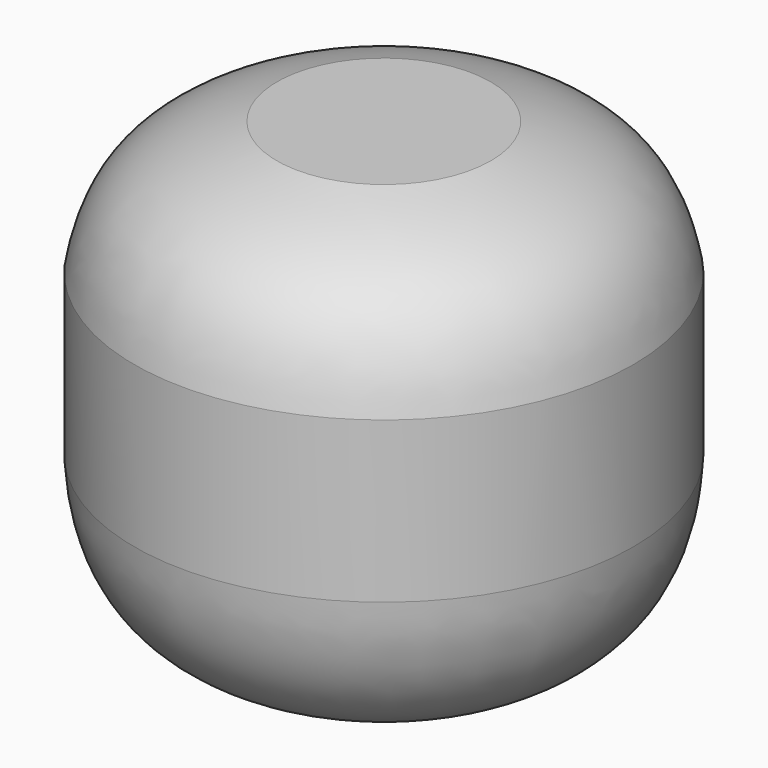
from build123d import *

# Parameters (mm, degrees)
F0_W = 44.45
F0_H = 28.575


with BuildPart() as f1:
    # F0 (on Front) → F1 (revolve)
    with BuildSketch(Plane.XZ):
        with Locations((22.225, 0.0121624306)):
            Rectangle(F0_W, F0_H)
    revolve(axis=Axis((0, 0, -3.2896416128), (0, 0, -1)))

    # F0 (on Front) → F2 (revolve)
    with BuildSketch(Plane.XZ):
        with BuildLine():
            Line((44.45, -14.2753375694), (0, -14.2753375694))
            Line((0, -14.2753375694), (0, -44.5646416128))
            Line((0, -44.5646416128), (19.05, -44.5646416128))
            add(Edge.make_bspline(
                [(19.05, -44.5646416128), (35.2008901536, -40.9282892942), (43.5626022518, -31.5213650465), (44.45, -14.2753375694)],
                knots=[0, 0, 0, 0, 39.5297601742, 39.5297601742, 39.5297601742, 39.5297601742], degree=3))
        make_face()
    revolve(axis=Axis((0, 0, -3.2896416128), (0, 0, -1)))

    # F0 (on Front) → F3 (revolve)
    with BuildSketch(Plane.XZ):
        with BuildLine():
            Line((19.05, 37.9853583872), (0, 37.9853583872))
            Line((0, 37.9853583872), (0, 14.2996624306))
            Line((0, 14.2996624306), (44.45, 14.2996624306))
            add(Edge.make_bspline(
                [(19.05, 37.9853583872), (36.7687121034, 33.2818962634), (41.9947765768, 27.0106121898), (44.45, 14.2996624306)],
                knots=[0, 0, 0, 0, 34.7299898208, 34.7299898208, 34.7299898208, 34.7299898208], degree=3))
        make_face()
    revolve(axis=Axis((0, 0, -3.2896416128), (0, 0, -1)))


solid = f1.part
